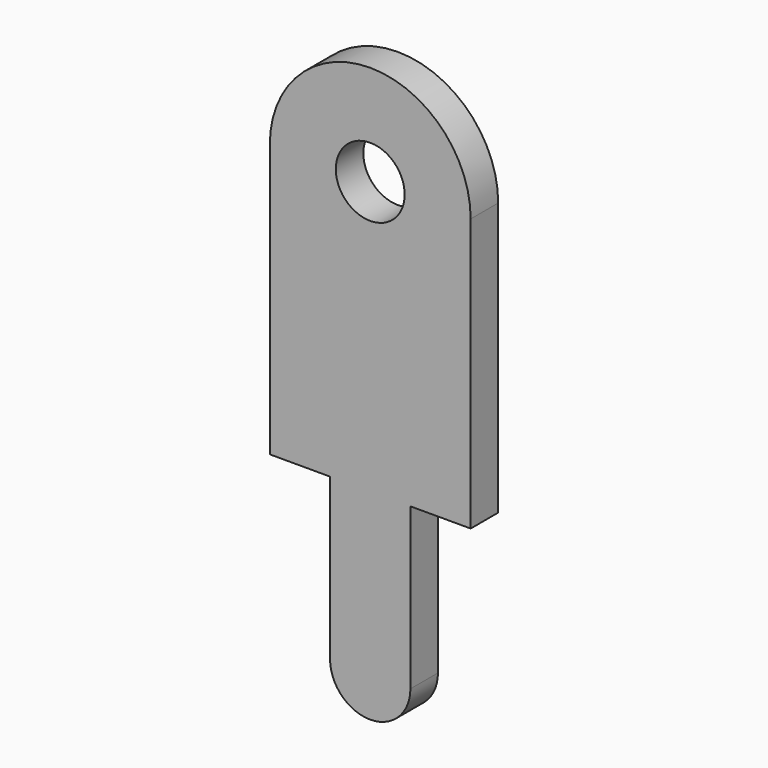
from build123d import *

# Parameters (mm, degrees)
SKETCH_R  = 0.6
PAD_DEPTH = 0.3


with BuildPart() as part:
    # Sketch → Pad (new body, symmetric)
    with BuildSketch(Plane(origin=(0, 0, 0), x_dir=(-1, 0, 0), z_dir=(0, 1, 0))):
        with BuildLine():
            Line((-1.75, 4.75), (-1.75, 0))
            Line((-1.75, 0), (-0.7, 0))
            Line((-0.7, 0), (-0.7, -2.8))
            ThreePointArc((-0.7, -2.8), (0, -3.5), (0.7, -2.8))
            Line((0.7, 0), (0.7, -2.8))
            Line((0.7, 0), (1.75, 0))
            Line((1.75, 0), (1.75, 4.75))
            ThreePointArc((1.75, 4.75), (0, 6.5), (-1.75, 4.75))
        make_face()
        with Locations((0, 4.75)):
            Circle(SKETCH_R, mode=Mode.SUBTRACT)
    extrude(amount=PAD_DEPTH, both=True)


solid = part.part
